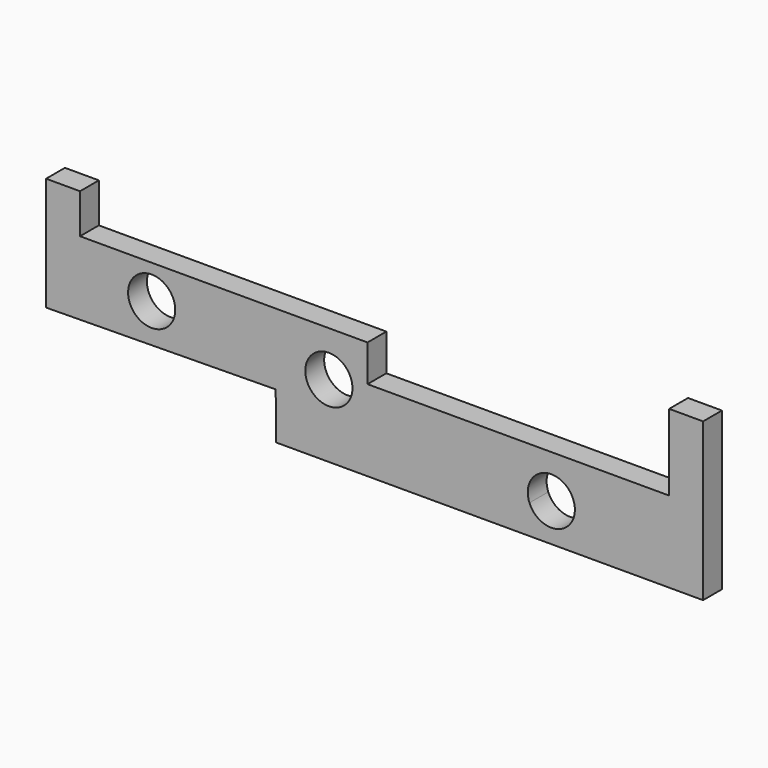
from build123d import *

# Parameters (mm, degrees)
F0_W      = 177.038
F0_H      = 34.544
F1_DEPTH  = 6.35
F2_R      = 6.35
F3_DEPTH  = 6.351
F4_DEPTH  = 25.4
F6_W      = 130.2497221681
F6_H      = 6.35
F6_W_2    = 46.7882778319
F7_DEPTH  = 7.874
F9_DEPTH  = 25.4
F11_DEPTH = 25.4


with BuildPart() as f1:
    # F0 (on Front) → F1 (new body)
    with BuildSketch(Plane.XZ):
        with Locations((88.519, 17.272)):
            Rectangle(F0_W, F0_H)
    extrude(amount=F1_DEPTH)

    # F2 (on face) → F3 (cut, through all)
    with BuildSketch(Plane.XZ.offset(6.35)):
        with Locations((28.448, 14.732)):
            Circle(F2_R)
    extrude(amount=-F3_DEPTH, mode=Mode.SUBTRACT)

    # F2 (on face) → F4 (cut)
    with BuildSketch(Plane.XZ.offset(6.35)):
        with Locations((28.448, 14.732)):
            Circle(F2_R)
        with Locations((76.2, 11.684)):
            Circle(F2_R)
        with Locations((136.144, 2.3622)):
            Circle(F2_R)
    extrude(amount=-F4_DEPTH, mode=Mode.SUBTRACT)

    # F6 (on face) → F7 (join)
    with BuildSketch(Plane(origin=(0, 0, 0), x_dir=(1, 0, 0), z_dir=(0, 0, -1))):
        with Locations((65.124861084, 3.175)):
            Rectangle(F6_W, F6_H)
        with Locations((153.643861084, 3.175)):
            Rectangle(F6_W_2, F6_H)
    extrude(amount=F7_DEPTH)

    # F8 (on face) → F9 (cut)
    with BuildSketch(Plane.XZ.offset(6.35)):
        with BuildLine():
            Line((142.0382778319, 0), (130.2497221681, 0))
            ThreePointArc((130.2497221681, 0), (136.144, -3.9878), (142.0382778319, 0))
        make_face()
    extrude(amount=-F9_DEPTH, mode=Mode.SUBTRACT)

    # F10 (on face) → F11 (cut)
    with BuildSketch(Plane.XZ.offset(6.35)):
        Polygon((167.894, 34.544), (9.144, 34.544), (9.144, 23.8669347018), (86.614, 23.8669347018), (86.614, 13.97), (167.894, 13.97), align=None)
        Polygon((61.8659904612, 4.6831931899), (0, 3.9632934857), (0, -7.874), (62.0121114495, -7.874), align=None)
    extrude(amount=-F11_DEPTH, mode=Mode.SUBTRACT)


solid = f1.part
